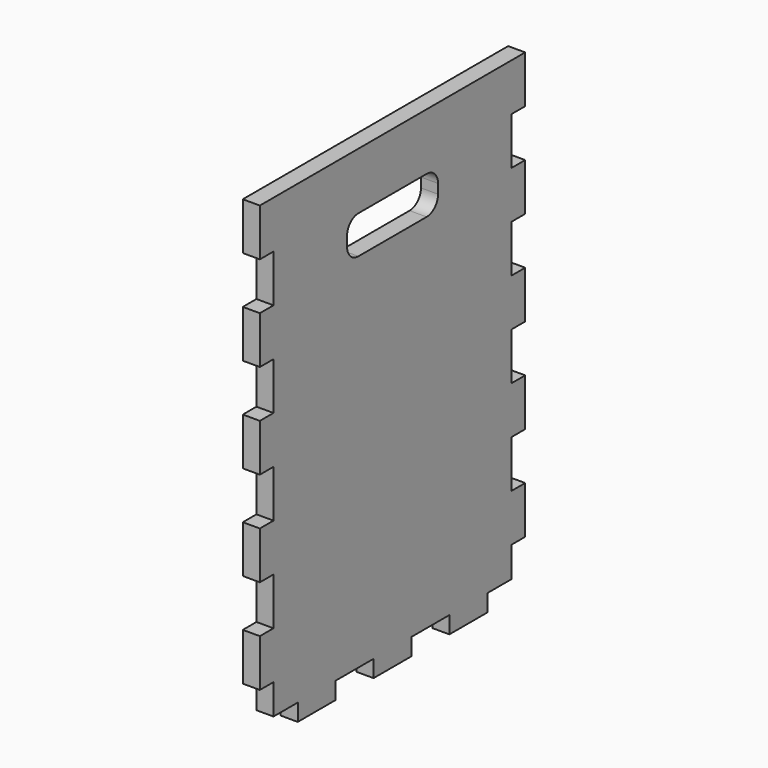
from build123d import *

# Parameters (mm, degrees)
F1_DEPTH = 18
F3_DEPTH = 25


with BuildPart() as f1:
    # F0 (on Right) → F1 (new body)
    with BuildSketch(Plane.YZ):
        Polygon((175, 250), (157, 250), (-157, 250), (-175, 250), (-175, 200), (-157, 200), (-157, 150), (-175, 150), (-175, 100), (-157, 100), (-157, 50), (-175, 50), (-175, 0), (-157, 0), (-157, -50), (-175, -50), (-175, -100), (-157, -100), (-157, -150), (-175, -150), (-175, -200), (-157, -200), (-157, -232), (-125, -232), (-125, -250), (-75, -250), (-75, -232), (-25, -232), (-25, -250), (25, -250), (25, -232), (75, -232), (75, -250), (125, -250), (125, -232), (157, -232), (157, -200), (175, -200), (175, -150), (157, -150), (157, -100), (175, -100), (175, -50), (157, -50), (157, 0), (175, 0), (175, 50), (157, 50), (157, 100), (175, 100), (175, 150), (157, 150), (157, 200), (175, 200), align=None)
    extrude(amount=F1_DEPTH)

    # F2 (on face) → F3 (cut)
    with BuildSketch(Plane(origin=(0, 0, 0), x_dir=(0, -1, 0), z_dir=(-1, 0, 0))):
        with BuildLine():
            Line((45, 190), (-45, 190))
            ThreePointArc((-45, 190), (-55.606602, 185.606602), (-60, 175))
            Line((-60, 175), (-60, 165))
            ThreePointArc((-60, 165), (-55.606602, 154.393398), (-45, 150))
            Line((-45, 150), (45, 150))
            ThreePointArc((45, 150), (55.606602, 154.393398), (60, 165))
            Line((60, 165), (60, 175))
            ThreePointArc((60, 175), (55.606602, 185.606602), (45, 190))
        make_face()
    extrude(amount=-F3_DEPTH, mode=Mode.SUBTRACT)


solid = f1.part
